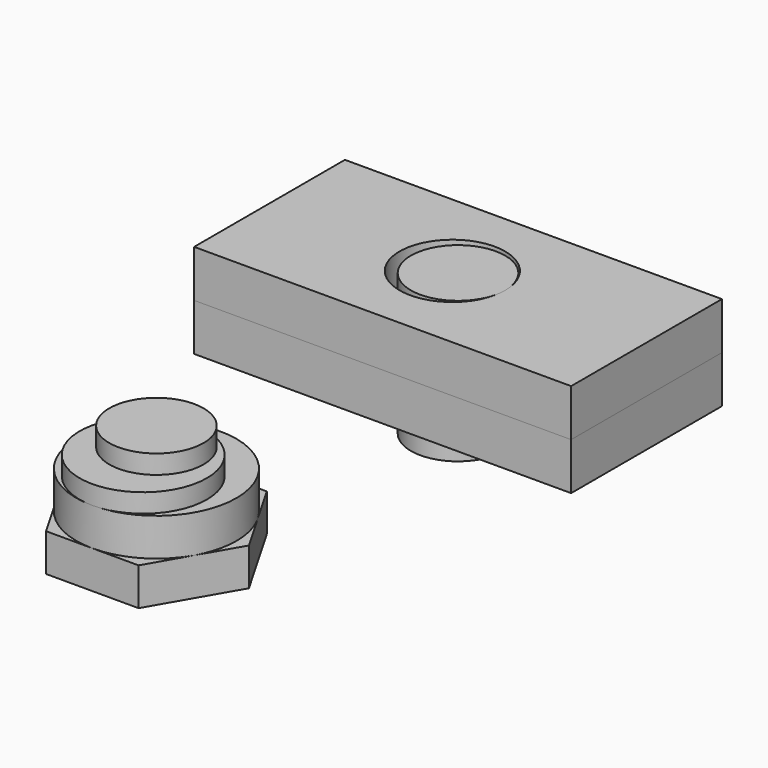
from build123d import *

# Parameters (mm, degrees)
F1_DEPTH  = 3.175
F2_W      = 25.4
F2_H      = 12.7
F2_R      = 3.556
F3_DEPTH  = 3.175
F4_R      = 3.175
F5_DEPTH  = 9.525
F7_DEPTH  = 2.54
F8_R      = 5.3975
F9_DEPTH  = 2.54
F10_R     = 3.175
F11_DEPTH = 2.54
F12_R     = 4.28625
F13_DEPTH = 1.27


with BuildPart() as f1:
    # F0 (on Top) → F1 (new body)
    with BuildSketch(Plane.XY):
        with BuildLine():
            Line((0, 6.35), (-12.7, 6.35))
            Line((-12.7, 6.35), (-12.7, 0))
            Line((-12.7, 0), (-3.175, 0))
            ThreePointArc((-3.175, 0), (-2.264749, 2.375952), (0, 3.53553))
            Line((0, 3.53553), (0, 6.35))
        make_face()
        with BuildLine():
            Line((12.7, 6.35), (0, 6.35))
            Line((0, 6.35), (0, 3.53553))
            ThreePointArc((0, 3.53553), (2.756952, 2.645749), (3.937, 0))
            Line((3.937, 0), (12.7, 0))
            Line((12.7, 0), (12.7, 6.35))
        make_face()
        with BuildLine():
            Line((-3.175, 0), (-12.7, 0))
            Line((-12.7, 0), (-12.7, -6.35))
            Line((-12.7, -6.35), (0, -6.35))
            Line((0, -6.35), (0, -3.53553))
            ThreePointArc((0, -3.53553), (-2.264749, -2.375952), (-3.175, 0))
        make_face()
        with BuildLine():
            Line((12.7, -6.35), (12.7, 0))
            Line((12.7, 0), (3.937, 0))
            ThreePointArc((3.937, 0), (2.756952, -2.645749), (0, -3.53553))
            Line((0, -3.53553), (0, -6.35))
            Line((0, -6.35), (12.7, -6.35))
        make_face()
    extrude(amount=F1_DEPTH)


with BuildPart() as f3:
    # F2 (on face) → F3 (new body)
    with BuildSketch(Plane.XY.offset(3.175)):
        Rectangle(F2_W, F2_H)
        with Locations((-0.381, 0)):
            Circle(F2_R, mode=Mode.SUBTRACT)
    extrude(amount=F3_DEPTH)


with BuildPart() as f5:
    # F4 (on face) → F5 (new body)
    with BuildSketch(Plane.XY.offset(6.35)):
        Circle(F4_R)
    extrude(amount=-F5_DEPTH)


with BuildPart() as f7:
    # F6 (on Top) → F7 (new body)
    with BuildSketch(Plane.XY):
        Polygon((3.116248, -30.7975), (6.232496, -25.4), (3.116248, -20.0025), (-3.116248, -20.0025), (-6.232496, -25.4), (-3.116248, -30.7975), align=None)
    extrude(amount=F7_DEPTH)

    # F8 (on face) → F9 (join)
    with BuildSketch(Plane.XY.offset(2.54)):
        with Locations((0, -25.4)):
            Circle(F8_R)
    extrude(amount=F9_DEPTH)

    # F10 (on face) → F11 (join)
    with BuildSketch(Plane.XY.offset(5.08)):
        with Locations((0, -25.4)):
            Circle(F10_R)
    extrude(amount=F11_DEPTH)

    # F12 (on face) → F13 (join)
    with BuildSketch(Plane.XY.offset(5.08)):
        with Locations((0, -26.51125)):
            Circle(F12_R)
    extrude(amount=F13_DEPTH)


solid = Compound([f1.part, f3.part, f5.part, f7.part])
